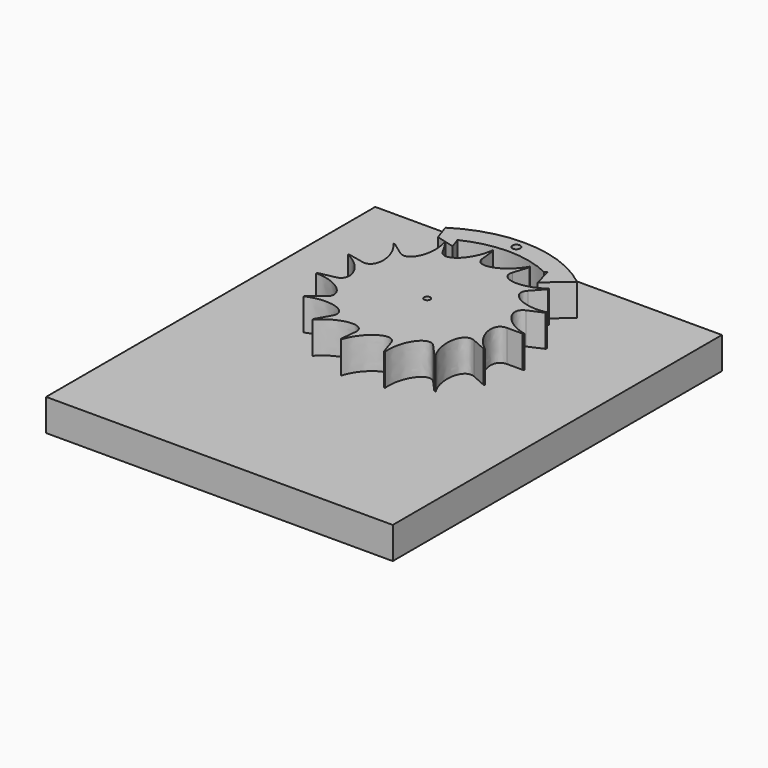
from build123d import *

# Parameters (mm, degrees)
F0_R     = 2.5
F1_DEPTH = 25.4
F2_R     = 3.175
F3_DEPTH = 25.4
F4_W     = 276.5388935804
F4_H     = 328.2092958689
F4_R     = 2.5
F4_R_2   = 3.175
F5_DEPTH = 25.4


with BuildPart() as f1:
    # F0 (on Top) → F1 (new body)
    with BuildSketch(Plane.XY):
        with BuildLine():
            Line((-31.75, 54.9926131403), (-38.1, 65.9911357684))
            Line((-38.1, 65.9911357684), (-39.1676334379, 66.2772072859))
            add(Edge.make_bspline(
                [(-51.3725791428, 37.3243635206), (-20.4343957802, 14.8464575684), (-39.1676334379, 66.2772072859)],
                knots=[5.8868413258, 5.8868413258, 5.8868413258, 8.4002814063, 8.4002814063, 8.4002814063], degree=2, weights=[1, 0.3089380758, 1]))
            Line((-51.3725791428, 37.3243635206), (-61.6470949714, 44.7892362247))
            Line((-61.6470949714, 44.7892362247), (-62.7387824177, 44.6163299195))
            add(Edge.make_bspline(
                [(-62.1123726466, 13.2023923669), (-24.7063477576, 5.2514963308), (-62.7387824177, 44.6163299195)],
                knots=[5.8868413258, 5.8868413258, 5.8868413258, 8.4002814063, 8.4002814063, 8.4002814063], degree=2, weights=[1, 0.3089380758, 1]))
            Line((-62.1123726466, 13.2023923669), (-74.5348471759, 15.8428708403))
            Line((-74.5348471759, 15.8428708403), (-75.4618259535, 15.2408837834))
            add(Edge.make_bspline(
                [(-62.1123726466, -13.2023923669), (-24.7063477576, -5.2514963308), (-75.4618259535, 15.2408837834)],
                knots=[5.8868413258, 5.8868413258, 5.8868413258, 8.4002814063, 8.4002814063, 8.4002814063], degree=2, weights=[1, 0.3089380758, 1]))
            Line((-62.1123726466, -13.2023923669), (-74.5348471759, -15.8428708403))
            Line((-74.5348471759, -15.8428708403), (-75.1368342328, -16.7698496179))
            add(Edge.make_bspline(
                [(-51.3725791428, -37.3243635206), (-20.4343957802, -14.8464575684), (-75.1368342328, -16.7698496179)],
                knots=[5.8868413258, 5.8868413258, 5.8868413258, 8.4002814063, 8.4002814063, 8.4002814063], degree=2, weights=[1, 0.3089380758, 1]))
            Line((-51.3725791428, -37.3243635206), (-61.6470949714, -44.7892362247))
            Line((-61.6470949714, -44.7892362247), (-61.8200012766, -45.880923671))
            add(Edge.make_bspline(
                [(-31.75, -54.9926131403), (-12.6291511317, -21.8743314166), (-61.8200012766, -45.880923671)],
                knots=[5.8868413258, 5.8868413258, 5.8868413258, 8.4002814063, 8.4002814063, 8.4002814063], degree=2, weights=[1, 0.3089380758, 1]))
            Line((-31.75, -54.9926131403), (-38.1, -65.9911357684))
            Line((-38.1, -65.9911357684), (-37.8139284825, -67.0587692063))
            add(Edge.make_bspline(
                [(-6.6375574175, -63.1521403559), (-2.6402115203, -25.1199346408), (-37.8139284825, -67.0587692063)],
                knots=[5.8868413258, 5.8868413258, 5.8868413258, 8.4002814063, 8.4002814063, 8.4002814063], degree=2, weights=[1, 0.3089380758, 1]))
            Line((-6.6375574175, -63.1521403559), (-7.965068901, -75.7825684271))
            Line((-7.965068901, -75.7825684271), (-7.269483925, -76.641544336))
            add(Edge.make_bspline(
                [(19.6225791428, -60.3920887847), (7.8052446485, -24.0220729582), (-7.269483925, -76.641544336)],
                knots=[5.8868413258, 5.8868413258, 5.8868413258, 8.4002814063, 8.4002814063, 8.4002814063], degree=2, weights=[1, 0.3089380758, 1]))
            Line((19.6225791428, -60.3920887847), (23.5470949714, -72.4705065417))
            Line((23.5470949714, -72.4705065417), (24.5319204442, -72.9723001834))
            add(Edge.make_bspline(
                [(42.4897935038, -47.1896964178), (16.9011031091, -18.7705766274), (24.5319204442, -72.9723001834)],
                knots=[5.8868413258, 5.8868413258, 5.8868413258, 8.4002814063, 8.4002814063, 8.4002814063], degree=2, weights=[1, 0.3089380758, 1]))
            Line((42.4897935038, -47.1896964178), (50.9877522045, -56.6276357014))
            Line((50.9877522045, -56.6276357014), (52.0915329032, -56.6854823966))
            add(Edge.make_bspline(
                [(58.0101365603, -25.8277768353), (23.0746073005, -10.2734770724), (52.0915329032, -56.6854823966)],
                knots=[5.8868413258, 5.8868413258, 5.8868413258, 8.4002814063, 8.4002814063, 8.4002814063], degree=2, weights=[1, 0.3089380758, 1]))
            Line((58.0101365603, -25.8277768353), (69.6121638724, -30.9933322024))
            Line((69.6121638724, -30.9933322024), (70.6440460865, -30.597229732))
            add(Edge.make_bspline(
                [(63.5, 0), (25.2583022634, 0), (70.6440460865, -30.597229732)],
                knots=[5.8868413258, 5.8868413258, 5.8868413258, 8.4002814063, 8.4002814063, 8.4002814063], degree=2, weights=[1, 0.3089380758, 1]))
            Line((63.5, 0), (76.2, 0))
            Line((76.2, 0), (76.9815619204, 0.7815619204))
            add(Edge.make_bspline(
                [(58.0101365603, 25.8277768353), (23.0746073005, 10.2734770724), (76.9815619204, 0.7815619204)],
                knots=[5.8868413258, 5.8868413258, 5.8868413258, 8.4002814063, 8.4002814063, 8.4002814063], degree=2, weights=[1, 0.3089380758, 1]))
            Line((58.0101365603, 25.8277768353), (69.6121638724, 30.9933322024))
            Line((69.6121638724, 30.9933322024), (70.0082663428, 32.0252144165))
            add(Edge.make_bspline(
                [(42.4897935038, 47.1896964178), (16.9011031091, 18.7705766274), (70.0082663428, 32.0252144165)],
                knots=[5.8868413258, 5.8868413258, 5.8868413258, 8.4002814063, 8.4002814063, 8.4002814063], degree=2, weights=[1, 0.3089380758, 1]))
            Line((42.4897935038, 47.1896964178), (50.9877522045, 56.6276357014))
            Line((50.9877522045, 56.6276357014), (50.9299055093, 57.7314164))
            add(Edge.make_bspline(
                [(19.6225791428, 60.3920887847), (7.8052446485, 24.0220729582), (50.9299055093, 57.7314164)],
                knots=[5.8868413258, 5.8868413258, 5.8868413258, 8.4002814063, 8.4002814063, 8.4002814063], degree=2, weights=[1, 0.3089380758, 1]))
            Line((19.6225791428, 60.3920887847), (23.5470949714, 72.4705065417))
            Line((23.5470949714, 72.4705065417), (23.0453013296, 73.4553320146))
            add(Edge.make_bspline(
                [(-6.6375574175, 63.1521403559), (-2.6402115203, 25.1199346408), (23.0453013296, 73.4553320146)],
                knots=[5.8868413258, 5.8868413258, 5.8868413258, 8.4002814063, 8.4002814063, 8.4002814063], degree=2, weights=[1, 0.3089380758, 1]))
            Line((-6.6375574175, 63.1521403559), (-7.965068901, 75.7825684271))
            Line((-7.965068901, 75.7825684271), (-8.8240448099, 76.478153403))
            add(Edge.make_bspline(
                [(-31.75, 54.9926131403), (-12.6291511317, 21.8743314166), (-8.8240448099, 76.478153403)],
                knots=[5.8868413258, 5.8868413258, 5.8868413258, 8.4002814063, 8.4002814063, 8.4002814063], degree=2, weights=[1, 0.3089380758, 1]))
        make_face()
        Circle(F0_R, mode=Mode.SUBTRACT)
    extrude(amount=F1_DEPTH)


with BuildPart() as f3:
    # F2 (on Top) → F3 (new body)
    with BuildSketch(Plane.XY):
        with BuildLine():
            Line((-50.8088127398, 81.5957321908), (-46.3994504025, 68.7900141272))
            Line((-46.3994504025, 68.7900141272), (-31.6195875436, 64.8297618099))
            Line((-31.6195875436, 64.8297618099), (-34.5351147482, 73.2970676315))
            ThreePointArc((-34.5351147482, 73.2970676315), (0.1301029976, 81.2751245868), (34.7687654101, 73.1825489513))
            Line((34.7687654101, 73.1825489513), (36.3741745596, 74.5781098338))
            Line((36.3741745596, 74.5781098338), (40.3344268768, 59.7982469749))
            Line((40.3344268768, 59.7982469749), (58.7980814107, 75.8484569928))
            ThreePointArc((58.7980814107, 75.8484569928), (4.9208633921, 96.3863070542), (-50.8088127398, 81.5957321908))
        make_face()
        with Locations((0, 88.8952320787)):
            Circle(F2_R, mode=Mode.SUBTRACT)
    extrude(amount=F3_DEPTH)


with BuildPart() as f5:
    # F4 (on Top) → F5 (new body)
    with BuildSketch(Plane.XY):
        with Locations((5.3789392114, -49.8094158558)):
            Rectangle(F4_W, F4_H)
        Circle(F4_R, mode=Mode.SUBTRACT)
        with Locations((0, 88.8952320787)):
            Circle(F4_R_2, mode=Mode.SUBTRACT)
    extrude(amount=-F5_DEPTH)


solid = Compound([f1.part, f3.part, f5.part])
